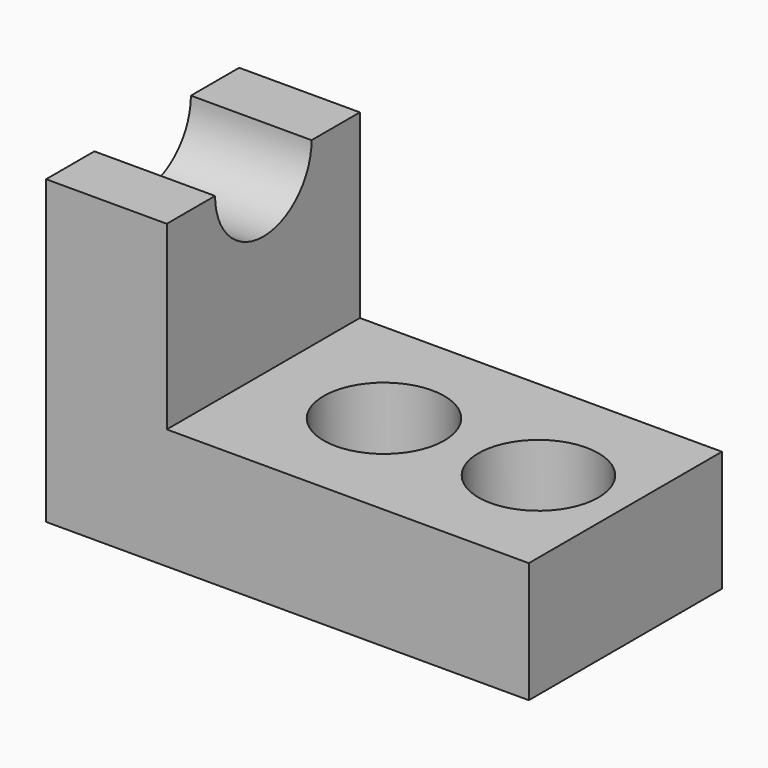
from build123d import *

# Parameters (mm, degrees)
F1_DEPTH = 50.8
F3_DEPTH = 80.264
F4_R     = 12.7
F4_R_2   = 12.625616
F5_DEPTH = 50.8


with BuildPart() as f1:
    # F0 (on Front) → F1 (new body)
    with BuildSketch(Plane.XZ):
        Polygon((-18.470924, 25.060495), (-43.870924, 25.060495), (-43.870924, -38.439505), (57.729076, -38.439505), (57.729076, -13.039505), (-18.470924, -13.039505), align=None)
    extrude(amount=F1_DEPTH)

    # F2 (on face) → F3 (cut)
    with BuildSketch(Plane.YZ.offset(-18.470924)):
        with BuildLine():
            Line((-12.7, 25.060495), (-38.1, 25.060495))
            ThreePointArc((-38.1, 25.060495), (-25.4, 12.360495), (-12.7, 25.060495))
        make_face()
    extrude(amount=-F3_DEPTH, mode=Mode.SUBTRACT)

    # F4 (on face) → F5 (cut)
    with BuildSketch(Plane.XY.offset(-13.039505)):
        with Locations((6.929076, -25.4)):
            Circle(F4_R)
        with Locations((39.437555, -25.4)):
            Circle(F4_R_2)
    extrude(amount=-F5_DEPTH, mode=Mode.SUBTRACT)


solid = f1.part
